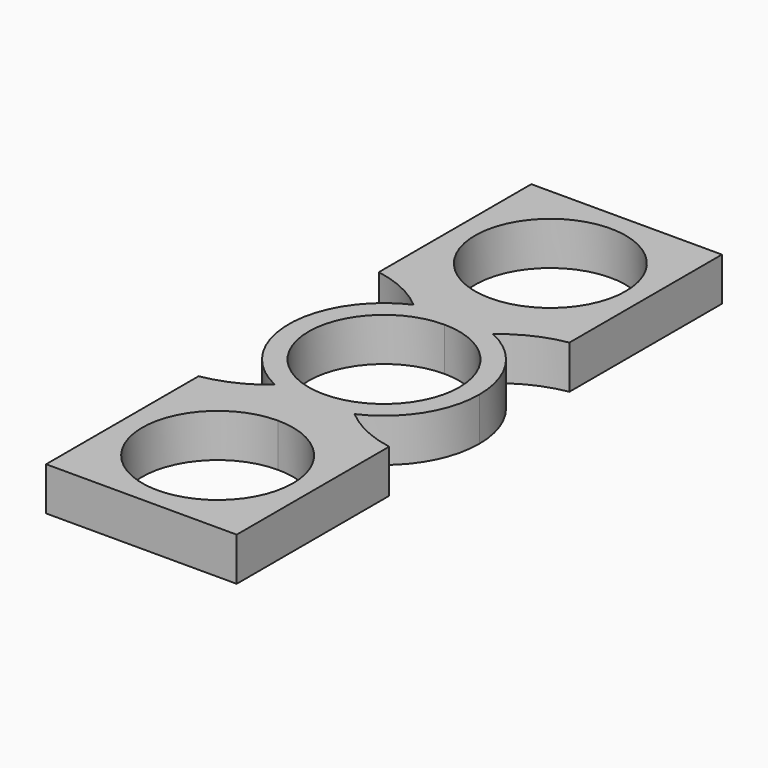
from build123d import *

# Parameters (mm, degrees)
F1_DEPTH = 6.35


with BuildPart() as f1:
    # F0 (on Top) → F1 (new body)
    with BuildSketch(Plane.XY):
        with BuildLine():
            ThreePointArc((5.843024, -12.689365), (11.764097, -7.534383), (13.97, 0))
            ThreePointArc((13.97, 0), (11.759892, 7.540945), (5.828862, 12.695876))
            ThreePointArc((5.828862, 12.695876), (2.983246, 13.647752), (0, 13.97))
            Line((0, 13.97), (0, 11.049))
            ThreePointArc((0, 11.049), (7.812823, 7.812823), (11.049, 0))
            ThreePointArc((11.049, 0), (7.812823, -7.812823), (0, -11.049))
            Line((0, -11.049), (0, -13.97))
            ThreePointArc((0, -13.97), (2.990859, -13.646086), (5.843024, -12.689365))
        make_face()
        with BuildLine():
            ThreePointArc((0, 13.97), (2.983246, 13.647752), (5.828862, 12.695876))
            ThreePointArc((5.828862, 12.695876), (9.638606, 15.159661), (13.97, 16.51))
            Line((13.97, 16.51), (0, 16.51))
            Line((0, 16.51), (0, 13.97))
        make_face()
        with BuildLine():
            ThreePointArc((13.97, -16.51), (9.646327, -15.153128), (5.843024, -12.689365))
            ThreePointArc((5.843024, -12.689365), (2.990859, -13.646086), (0, -13.97))
            Line((0, -13.97), (0, -16.51))
            Line((0, -16.51), (13.97, -16.51))
        make_face()
        with BuildLine():
            Line((0, 11.049), (0, 13.97))
            ThreePointArc((0, 13.97), (-2.983246, 13.647752), (-5.828862, 12.695876))
            ThreePointArc((-5.828862, 12.695876), (-13.97, 0), (-5.828862, -12.695876))
            ThreePointArc((-5.828862, -12.695876), (-2.983246, -13.647752), (0, -13.97))
            Line((0, -13.97), (0, -11.049))
            ThreePointArc((0, -11.049), (-11.049, 0), (0, 11.049))
        make_face()
        with BuildLine():
            ThreePointArc((-5.828862, 12.695876), (-2.983246, 13.647752), (0, 13.97))
            Line((0, 13.97), (0, 16.51))
            Line((0, 16.51), (-13.97, 16.51))
            ThreePointArc((-13.97, 16.51), (-9.638606, 15.159661), (-5.828862, 12.695876))
        make_face()
        with BuildLine():
            Line((0, 16.51), (13.97, 16.51))
            Line((13.97, 16.51), (13.97, 30.48))
            ThreePointArc((13.97, 30.48), (9.878282, 20.601718), (0, 16.51))
        make_face()
        with BuildLine():
            Line((0, -16.51), (0, -13.97))
            ThreePointArc((0, -13.97), (-2.983246, -13.647752), (-5.828862, -12.695876))
            ThreePointArc((-5.828862, -12.695876), (-9.638606, -15.159661), (-13.97, -16.51))
            Line((-13.97, -16.51), (0, -16.51))
        make_face()
        with BuildLine():
            Line((13.97, -30.48), (13.97, -16.51))
            Line((13.97, -16.51), (0, -16.51))
            ThreePointArc((0, -16.51), (9.878282, -20.601718), (13.97, -30.48))
        make_face()
        with BuildLine():
            ThreePointArc((11.049, 30.48), (-7.812823, 38.292823), (0, 19.431))
            ThreePointArc((0, 19.431), (7.812823, 22.667177), (11.049, 30.48))
        make_face()
        with BuildLine():
            Line((-13.97, 16.51), (0, 16.51))
            ThreePointArc((0, 16.51), (-9.878282, 20.601718), (-13.97, 30.48))
            Line((-13.97, 30.48), (-13.97, 16.51))
        make_face()
        with BuildLine():
            ThreePointArc((-13.97, 30.48), (-9.878282, 20.601718), (0, 16.51))
            ThreePointArc((0, 16.51), (9.878282, 20.601718), (13.97, 30.48))
            ThreePointArc((13.97, 30.48), (9.878282, 40.358282), (0, 44.45))
            ThreePointArc((0, 44.45), (-9.878282, 40.358282), (-13.97, 30.48))
        make_face()
        with BuildLine():
            ThreePointArc((11.049, 30.48), (7.812823, 22.667177), (0, 19.431))
            ThreePointArc((0, 19.431), (-7.812823, 38.292823), (11.049, 30.48))
        make_face(mode=Mode.SUBTRACT)
        with BuildLine():
            ThreePointArc((0, 44.45), (9.878282, 40.358282), (13.97, 30.48))
            Line((13.97, 30.48), (13.97, 44.45))
            Line((13.97, 44.45), (0, 44.45))
        make_face()
        with BuildLine():
            ThreePointArc((11.049, -30.48), (7.812823, -22.667177), (0, -19.431))
            ThreePointArc((0, -19.431), (-7.812823, -38.292823), (11.049, -30.48))
        make_face()
        with BuildLine():
            ThreePointArc((13.97, -30.48), (9.878282, -20.601718), (0, -16.51))
            ThreePointArc((0, -16.51), (-9.878282, -20.601718), (-13.97, -30.48))
            ThreePointArc((-13.97, -30.48), (-9.878282, -40.358282), (0, -44.45))
            ThreePointArc((0, -44.45), (9.878282, -40.358282), (13.97, -30.48))
        make_face()
        with BuildLine():
            ThreePointArc((11.049, -30.48), (-7.812823, -38.292823), (0, -19.431))
            ThreePointArc((0, -19.431), (7.812823, -22.667177), (11.049, -30.48))
        make_face(mode=Mode.SUBTRACT)
        with BuildLine():
            ThreePointArc((-13.97, -30.48), (-9.878282, -20.601718), (0, -16.51))
            Line((0, -16.51), (-13.97, -16.51))
            Line((-13.97, -16.51), (-13.97, -30.48))
        make_face()
        with BuildLine():
            Line((13.97, -44.45), (13.97, -30.48))
            ThreePointArc((13.97, -30.48), (9.878282, -40.358282), (0, -44.45))
            Line((0, -44.45), (13.97, -44.45))
        make_face()
        with BuildLine():
            Line((-13.97, 44.45), (-13.97, 30.48))
            ThreePointArc((-13.97, 30.48), (-9.878282, 40.358282), (0, 44.45))
            Line((0, 44.45), (-13.97, 44.45))
        make_face()
        with BuildLine():
            ThreePointArc((0, -44.45), (-9.878282, -40.358282), (-13.97, -30.48))
            Line((-13.97, -30.48), (-13.97, -44.45))
            Line((-13.97, -44.45), (0, -44.45))
        make_face()
    extrude(amount=F1_DEPTH)


solid = f1.part
